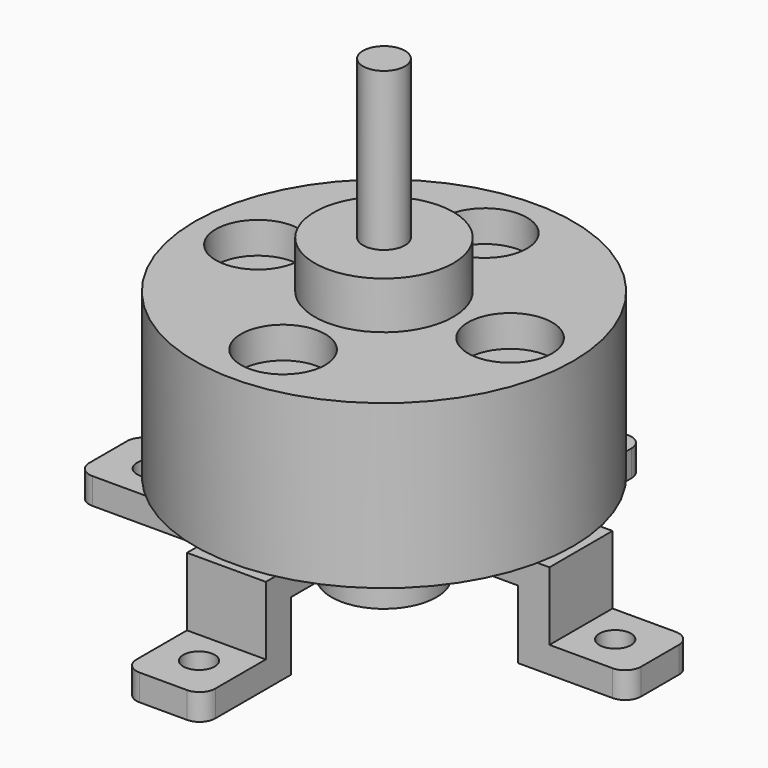
from build123d import *

# Parameters (mm, degrees)
F1_DEPTH  = 3.75
F2_R      = 18
F2_R_2    = 2
F3_DEPTH  = 15.5
F4_R      = 6.6
F4_R_2    = 2
F5_DEPTH  = 4.5
F6_R      = 5
F7_DEPTH  = 8.5
F8_R      = 2
F9_DEPTH  = 35
F10_R     = 4
F11_DEPTH = 3
F12_ANGLE = 90
F13_R     = 1.5
F14_R     = 3
F15_DEPTH = 12
F16_R     = 1.5
F17_DEPTH = 25
F19_ANGLE = 90
F21_D     = 3
F21_2_D   = 3


with BuildPart() as f1:
    # F0 (on Right) → F1 (new body, symmetric)
    with BuildSketch(Plane.YZ):
        Polygon((-15.745, 6.5), (0, 6.5), (0, 9), (-18.745, 9), (-18.745, 2.5), (-26.25, 2.5), (-26.25, 0), (-15.745, 0), align=None)
        Polygon((0, 9), (0, 6.5), (15.745, 6.5), (15.745, 0), (26.25, 0), (26.25, 2.5), (18.745, 2.5), (18.745, 9), align=None)
    extrude(amount=F1_DEPTH, both=True)

    # F13
    f13_edges = [f1.edges().sort_by_distance(p)[0] for p in [
        (3.75, 26.25, 1.25),
        (-3.75, 26.25, 1.25),
        (3.75, -26.25, 1.25),
        (-3.75, -26.25, 1.25),
    ]]
    fillet(f13_edges, radius=F13_R)

    # F21 (through all)
    with Locations(Plane(origin=(0, 0, 0), x_dir=(1, 0, 0), z_dir=(0, 0, -1))):
        with Locations((-22, 0), (0, 22), (0, -22), (22, 0)):
            Hole(F21_D / 2)


with BuildPart() as f3:
    # F2 (on face) → F3 (new body)
    with BuildSketch(Plane.XY.offset(9)):
        Circle(F2_R)
        Circle(F2_R_2, mode=Mode.SUBTRACT)
    extrude(amount=F3_DEPTH)

    # F4 (on face) → F5 (join)
    with BuildSketch(Plane.XY.offset(24.5)):
        Circle(F4_R)
        Circle(F4_R_2, mode=Mode.SUBTRACT)
    extrude(amount=F5_DEPTH)

    # F10 (on face) → F11 (cut)
    with BuildSketch(Plane.XY.offset(24.5)):
        with Locations((-12, 0)):
            Circle(F10_R)
        with Locations((0, -12)):
            Circle(F10_R)
        with Locations((0, 12)):
            Circle(F10_R)
        with Locations((12, 0)):
            Circle(F10_R)
    extrude(amount=-F11_DEPTH, mode=Mode.SUBTRACT)

    # F14 (on face) → F15 (join)
    with BuildSketch(Plane(origin=(0, 0, 9), x_dir=(1, 0, 0), z_dir=(0, 0, -1))):
        with Locations((-7.05688, 7.085227)):
            Circle(F14_R)
    extrude(amount=F15_DEPTH)


with BuildPart() as f7:
    # F6 (on face) → F7 (new body)
    with BuildSketch(Plane(origin=(0, 0, 9), x_dir=(1, 0, 0), z_dir=(0, 0, -1))):
        Circle(F6_R)
    extrude(amount=F7_DEPTH)


with BuildPart() as f9:
    # F8 (on face) → F9 (new body)
    with BuildSketch(Plane.XY.offset(9)):
        Circle(F8_R)
    extrude(amount=F9_DEPTH)


with BuildPart() as f12_1:
    # F12: copy of F1
    add(f1.part.rotate(Axis((0, 0, 9), (0, 0, -1)), F12_ANGLE))

    # F16 (on face) → F17 (cut)
    with BuildSketch(Plane(origin=(0, 0, 0), x_dir=(1, 0, 0), z_dir=(0, 0, -1))):
        with Locations((-22, 0)):
            Circle(F16_R)
        with Locations((22, 0)):
            Circle(F16_R)
    extrude(amount=-F17_DEPTH, mode=Mode.SUBTRACT)


with BuildPart() as f19_1:
    # F19: copy of F1
    add(f1.part.rotate(Axis((0, 0, 9), (0, 0, -1)), F19_ANGLE))

    # F21#2 (through all)
    with Locations(Plane(origin=(0, 0, 0), x_dir=(1, 0, 0), z_dir=(0, 0, -1))):
        with Locations((-22, 0), (0, 22), (0, -22), (22, 0)):
            Hole(F21_2_D / 2)


solid = Compound([f1.part, f3.part, f7.part, f9.part, f19_1.part])
